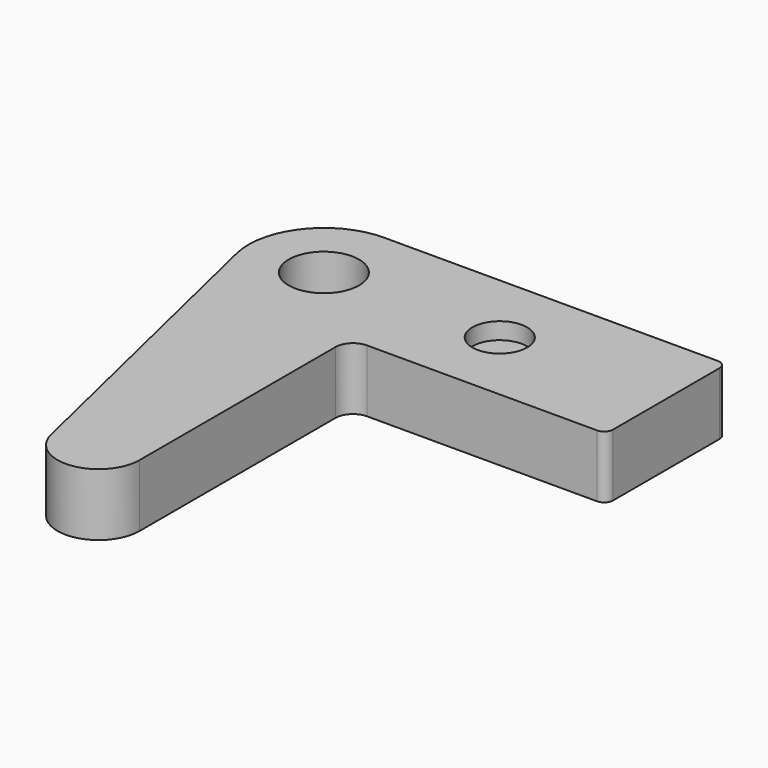
from build123d import *

# Parameters (mm, degrees)
F0_R     = 3.048
F0_R_2   = 2.3749
F1_DEPTH = 5.4102
F2_START = 3.9624
F2_DEPTH = 21.4376


with BuildPart() as f1:
    # F0 (on Top) → F1 (new body)
    with BuildSketch(Plane.XY):
        with BuildLine():
            Line((28.9052, 6.5278), (0, 6.5278))
            ThreePointArc((0, 6.5278), (-5.1208699041, 4.048316226), (-6.351573493, -1.506548042))
            Line((-6.351573493, -1.506548042), (0.4261988754, -30.0814876494))
            ThreePointArc((0.4261988754, -30.0814876494), (4.2993416228, -32.7927187419), (7.4422, -29.2608))
            Line((7.4422, -29.2608), (7.4422, -8.0518))
            ThreePointArc((7.4422, -8.0518), (7.8885692655, -6.9741692655), (8.9662, -6.5278))
            Line((8.9662, -6.5278), (28.9052, -6.5278))
            ThreePointArc((28.9052, -6.5278), (29.4440153673, -6.3046153673), (29.6672, -5.7658))
            Line((29.6672, -5.7658), (29.6672, 5.7658))
            ThreePointArc((29.6672, 5.7658), (29.4440153673, 6.3046153673), (28.9052, 6.5278))
        make_face()
        Circle(F0_R, mode=Mode.SUBTRACT)
        with Locations((15.24, 0)):
            Circle(F0_R_2, mode=Mode.SUBTRACT)
        with Locations((15.24, 0)):
            Circle(F0_R_2)
    extrude(amount=F1_DEPTH)

    # F0 (on Top) → F2 (cut)
    with BuildSketch(Plane.XY.offset(F2_START)):
        with Locations((15.24, 0)):
            Circle(F0_R_2)
    extrude(amount=F2_DEPTH, mode=Mode.SUBTRACT)


solid = f1.part
